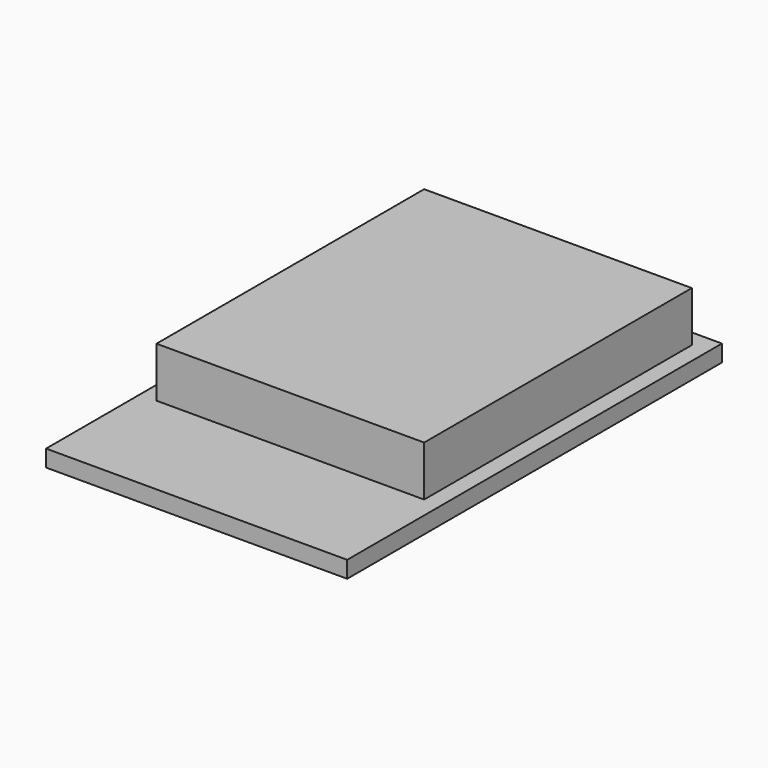
from build123d import *

# Parameters (mm, degrees)
F0_W     = 16
F0_H     = 20
F1_DEPTH = 4
F0_W_2   = 18
F0_H_2   = 28
F2_DEPTH = 1


with BuildPart() as f1:
    # F0 (on Top) → F1 (new body)
    with BuildSketch(Plane.XY):
        with Locations((0, 3)):
            Rectangle(F0_W, F0_H)
    extrude(amount=F1_DEPTH)

    # F0 (on Top) → F2 (join)
    with BuildSketch(Plane.XY):
        Rectangle(F0_W_2, F0_H_2)
        with Locations((0, 3)):
            Rectangle(F0_W, F0_H, mode=Mode.SUBTRACT)
    extrude(amount=F2_DEPTH)


solid = f1.part
